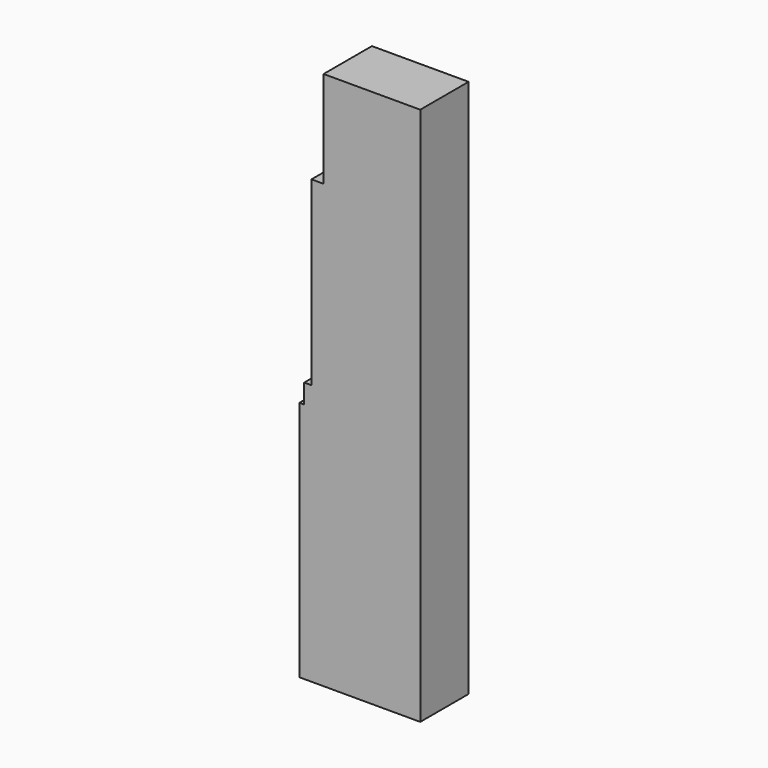
from build123d import *

# Parameters (mm, degrees)
F0_W     = 40
F0_H     = 40
F1_DEPTH = 25


with BuildPart() as f1:
    # F0 (on Front) → F1 (new body)
    with BuildSketch(Plane.XZ):
        Polygon((-40, 75), (-45, 75), (-45, 0), (0, 0), (0, 75), align=None)
        with Locations((-20, 95)):
            Rectangle(F0_W, F0_H)
        Polygon((0, 0), (-45, 0), (-48, 0), (-48, -8), (0, -8), align=None)
        Polygon((0, -108), (0, -8), (-48, -8), (-50, -8), (-50, -108), align=None)
    extrude(amount=F1_DEPTH)


solid = f1.part
